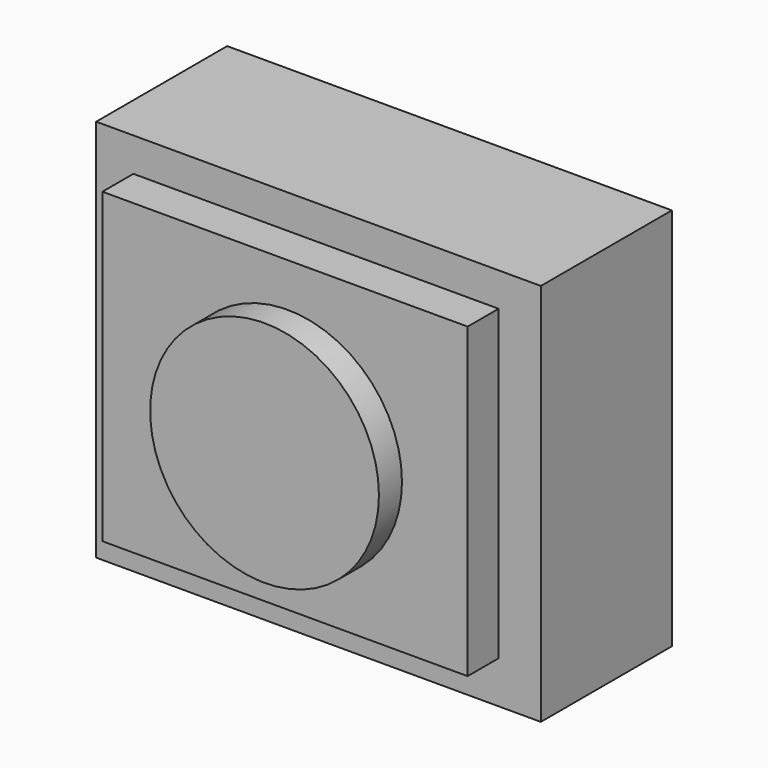
from build123d import *

# Parameters (mm, degrees)
F0_W     = 49.430196
F0_H     = 42.66408
F1_DEPTH = 18.2
F2_W     = 40.59666
F2_H     = 34.206446
F3_DEPTH = 4.3
F4_R     = 12.717394
F5_DEPTH = 3.2


with BuildPart() as f1:
    # F0 (on Front) → F1 (new body)
    with BuildSketch(Plane.XZ):
        Rectangle(F0_W, F0_H)
    extrude(amount=F1_DEPTH)

    # F2 (on face) → F3 (join)
    with BuildSketch(Plane.XZ.offset(18.2)):
        with Locations((-0.281921, 0.469869)):
            Rectangle(F2_W, F2_H)
    extrude(amount=F3_DEPTH)

    # F4 (on face) → F5 (join)
    with BuildSketch(Plane.XZ.offset(22.5)):
        Circle(F4_R)
    extrude(amount=F5_DEPTH)


solid = f1.part
